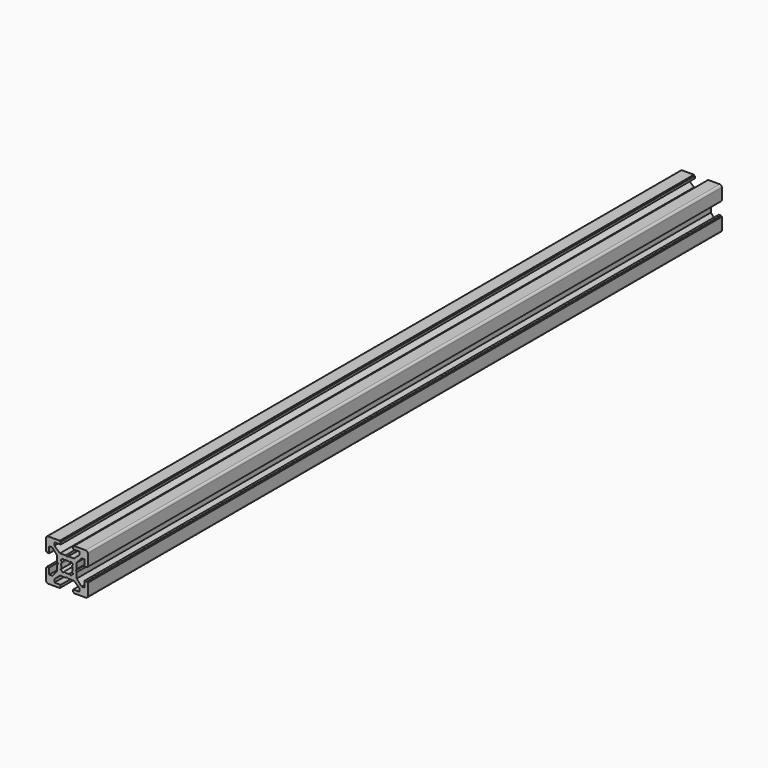
from build123d import *

# Parameters (mm, degrees)
PAD_DEPTH          = 380
POCKET_DEPTH       = 380
POLARPATTERN_COUNT = 4
POCKET001_DEPTH    = 380


with BuildPart() as part:
    # Sketch → Pad (new body)
    with BuildSketch(Plane.XZ):
        with BuildLine():
            Line((-9, 10), (9, 10))
            ThreePointArc((10, 9), (9.707107, 9.707107), (9, 10))
            Line((10, 9), (10, -9))
            ThreePointArc((9, -10), (9.707107, -9.707107), (10, -9))
            Line((9, -10), (-9, -10))
            ThreePointArc((-10, -9), (-9.707107, -9.707107), (-9, -10))
            Line((-10, -9), (-10, 9))
            ThreePointArc((-9, 10), (-9.707107, 9.707107), (-10, 9))
        make_face()
    extrude(amount=PAD_DEPTH)

    # Sketch001 → Pocket (cut)
    with BuildSketch(Plane.XZ.offset(380)):
        Polygon((-3.4, 10), (-3.4, 9.6), (-3, 9.6), (-3, 8.5), (-6, 8.5), (-6, 7), (-3.35, 4.7), (-0.65, 4.7), (0, 4.3), (0.65, 4.7), (3.35, 4.7), (6, 7), (6, 8.5), (3, 8.5), (3, 9.6), (3.4, 9.6), (3.4, 10), align=None)
    pocket = extrude(amount=-POCKET_DEPTH, mode=Mode.SUBTRACT)

    # PolarPattern: Pocket ×4 about axis
    polarpattern_axis = Axis((0, -380, 0), (0, -1, 0))
    for i in range(1, POLARPATTERN_COUNT):
        add(pocket.rotate(polarpattern_axis, i * 360 / POLARPATTERN_COUNT), mode=Mode.SUBTRACT)

    # Sketch002 → Pocket001 (cut)
    with BuildSketch(Plane.XZ.offset(380)):
        with BuildLine():
            ThreePointArc((1.340499, 2.401159), (0, 2.75), (-1.340499, 2.401159))
            Line((-1.944544, 3.005204), (-1.340499, 2.401159))
            Line((-3.005204, 1.944544), (-1.944544, 3.005204))
            Line((-2.401159, 1.340499), (-3.005204, 1.944544))
            ThreePointArc((-2.401159, 1.340499), (-2.75, 0), (-2.401159, -1.340499))
            Line((-3.005204, -1.944544), (-2.401159, -1.340499))
            Line((-1.944544, -3.005204), (-3.005204, -1.944544))
            Line((-1.340499, -2.401159), (-1.944544, -3.005204))
            ThreePointArc((-1.340499, -2.401159), (0, -2.75), (1.340499, -2.401159))
            Line((1.944544, -3.005204), (1.340499, -2.401159))
            Line((3.005204, -1.944544), (1.944544, -3.005204))
            Line((2.401159, -1.340499), (3.005204, -1.944544))
            ThreePointArc((2.401159, -1.340499), (2.75, 0), (2.401159, 1.340499))
            Line((2.401159, 1.340499), (3.005204, 1.944544))
            Line((3.005204, 1.944544), (1.944544, 3.005204))
            Line((1.944544, 3.005204), (1.340499, 2.401159))
        make_face()
    extrude(amount=-POCKET001_DEPTH, mode=Mode.SUBTRACT)


solid = part.part
